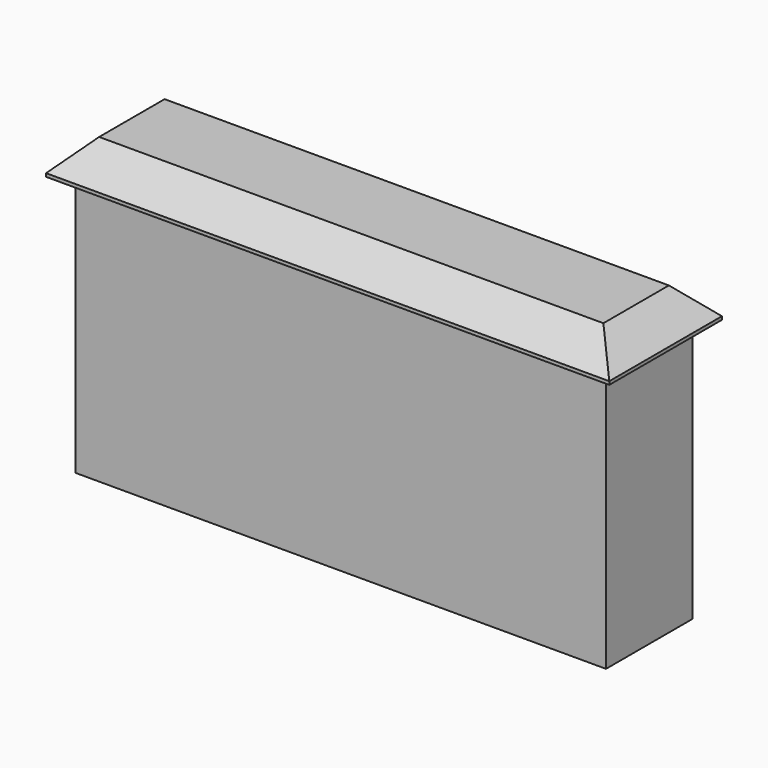
from build123d import *

# Parameters (mm, degrees)
BOX017_W        = 17.2
BOX017_H        = 4.3
BOX017_DEPTH    = 1
BOX016_W        = 16.2
BOX016_H        = 3.3
BOX016_DEPTH    = 8
CHAMFER_SIZE    = 0.9
CHAMFER001_SIZE = 0.9


with BuildPart() as tapa_puerta001:
    # Box017 → Box017 (new body)
    with BuildSketch(Plane(origin=(80.5, -27.5, 22.8), x_dir=(1, 0, 0), z_dir=(0, 0, 1))):
        with Locations((8.6, 2.15)):
            Rectangle(BOX017_W, BOX017_H)
    extrude(amount=BOX017_DEPTH)


with BuildPart() as tapa_puerta:
    # Box016 → Box016 (new body)
    with BuildSketch(Plane(origin=(81, -27, 14.8), x_dir=(1, 0, 0), z_dir=(0, 0, 1))):
        with Locations((8.1, 1.65)):
            Rectangle(BOX016_W, BOX016_H)
    extrude(amount=BOX016_DEPTH)

    # Fusion006: union tapa_puerta001
    add(tapa_puerta001.part)

    # Chamfer
    chamfer_edges = [tapa_puerta.edges().sort_by_distance(p)[0] for p in [
        (89.1, -23.2, 23.8),
    ]]
    chamfer(chamfer_edges, length=CHAMFER_SIZE)

    # Chamfer001
    chamfer001_edges = [tapa_puerta.edges().sort_by_distance(p)[0] for p in [
        (80.5, -25.8, 23.8),
        (89.1, -27.5, 23.8),
        (97.7, -25.8, 23.8),
    ]]
    chamfer(chamfer001_edges, length=CHAMFER001_SIZE)


with BuildPart() as tapa_puerta_1:
    # Chamfer001 placement: moved
    add(tapa_puerta.part.moved(Location((0, 0, 2))))


solid = tapa_puerta_1.part
